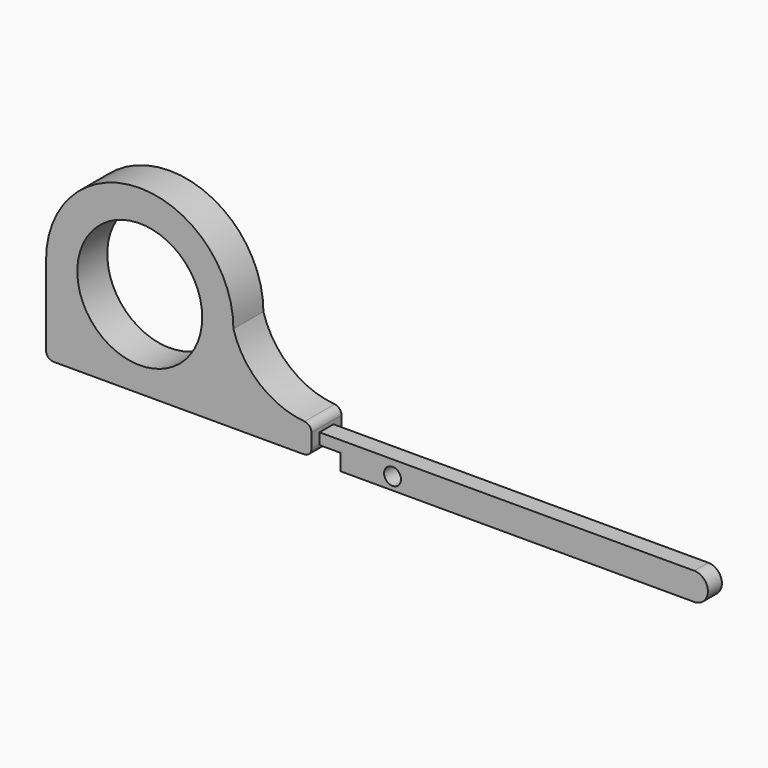
from build123d import *

# Parameters (mm, degrees)
F0_R     = 12.7
F1_DEPTH = 3.81
F0_R_2   = 1.7145
F2_DEPTH = 1.778


with BuildPart() as f1:
    # F0 (on Front) → F1 (new body, symmetric)
    with BuildSketch(Plane.XZ):
        with BuildLine():
            ThreePointArc((-3.6384169996, 12.4593047711), (-22.6884169996, 31.5093047711), (-41.7384169996, 12.4593047711))
            Line((-41.7384169996, 12.4593047711), (-41.7384169996, -3.7966952289))
            ThreePointArc((-41.7384169996, -3.7966952289), (-41.2920477341, -4.8743259634), (-40.2144169996, -5.3206952289))
            Line((-40.2144169996, -5.3206952289), (10.7125830004, -5.3206952289))
            ThreePointArc((10.7125830004, -5.3206952289), (11.7902137349, -4.8743259634), (12.2365830004, -3.7966952289))
            Line((12.2365830004, -3.7966952289), (12.2365830004, -1.7070369388))
            Line((12.2365830004, -1.7070369388), (12.2365830004, -0.9143137283))
            ThreePointArc((12.2365830004, -0.9143137283), (11.8343072152, 0.1173406644), (10.8398496856, 0.6043630612))
            ThreePointArc((10.8398496856, 0.6043630612), (1.7590143391, 4.282590232), (-3.6384169996, 12.4593047711))
        make_face()
        with Locations((-22.6884169996, 12.4593047711)):
            Circle(F0_R, mode=Mode.SUBTRACT)
    extrude(amount=F1_DEPTH, both=True)

    # F0 (on Front) → F2 (join, symmetric)
    with BuildSketch(Plane.XZ):
        with BuildLine():
            Line((12.2365830004, -1.7070369388), (12.2365830004, -3.7966952289))
            Line((12.2365830004, -3.7966952289), (12.2365830004, -3.9930369388))
            Line((12.2365830004, -3.9930369388), (16.5545830004, -3.9930369388))
            Line((16.5545830004, -3.9930369388), (16.5545830004, -7.2950369388))
            Line((16.5545830004, -7.2950369388), (88.4365830004, -7.2950369388))
            ThreePointArc((88.4365830004, -7.2950369388), (91.2305830004, -4.5010369388), (88.4365830004, -1.7070369388))
            Line((88.4365830004, -1.7070369388), (12.2365830004, -1.7070369388))
        make_face()
        with Locations((27.0955830004, -4.7550369388)):
            Circle(F0_R_2, mode=Mode.SUBTRACT)
    extrude(amount=F2_DEPTH, both=True)


solid = f1.part
